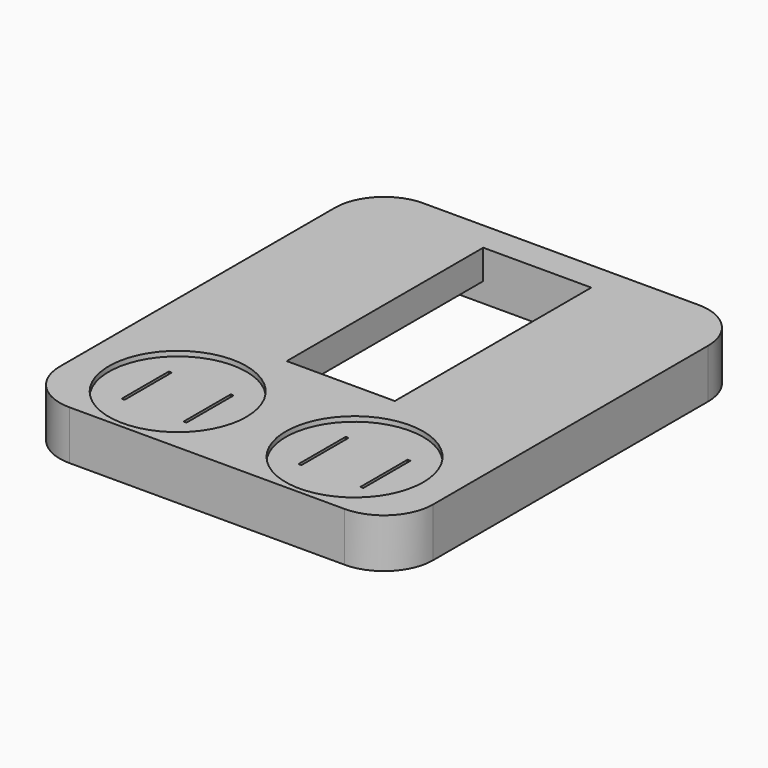
from build123d import *

# Parameters (mm, degrees)
F0_W      = 38
F0_H      = 45
F1_DEPTH  = 5
F2_R      = 7
F3_DEPTH  = 0.5
F2_W      = 5.5
F2_H      = 25
F4_DEPTH  = 5.001
F5_W      = 3
F5_H      = 25
F6_DEPTH  = 2
F7_W      = 0.3
F7_H      = 6
F8_DEPTH  = 5
F9_R      = 7
F10_DEPTH = 0.5
F11_R     = 5


with BuildPart() as f1:
    # F0 (on Top) → F1 (new body)
    with BuildSketch(Plane.XY):
        with Locations((19, 22.5)):
            Rectangle(F0_W, F0_H)
    extrude(amount=F1_DEPTH)

    # F2 (on face) → F3 (cut)
    with BuildSketch(Plane.XY.offset(5)):
        with Locations((10, 7.5)):
            Circle(F2_R)
        with Locations((28, 7.5)):
            Circle(F2_R)
    extrude(amount=-F3_DEPTH, mode=Mode.SUBTRACT)

    # F2 (on face) → F4 (cut, through all)
    with BuildSketch(Plane.XY.offset(5)):
        with Locations((16.25, 29.5)):
            Rectangle(F2_W, F2_H)
        with Locations((21.75, 29.5)):
            Rectangle(F2_W, F2_H)
    extrude(amount=-F4_DEPTH, mode=Mode.SUBTRACT)

    # F5 (on face) → F6 (cut)
    with BuildSketch(Plane(origin=(0, 0, 0), x_dir=(1, 0, 0), z_dir=(0, 0, -1))):
        with Locations((26, -29.5)):
            Rectangle(F5_W, F5_H)
        with Locations((12, -29.5)):
            Rectangle(F5_W, F5_H)
    extrude(amount=-F6_DEPTH, mode=Mode.SUBTRACT)

    # F7 (on face) → F8 (cut)
    with BuildSketch(Plane.XY.offset(4.5)):
        with Locations((6.85, 7.5)):
            Rectangle(F7_W, F7_H)
        with Locations((13.15, 7.5)):
            Rectangle(F7_W, F7_H)
        with Locations((24.85, 7.5)):
            Rectangle(F7_W, F7_H)
        with Locations((31.15, 7.5)):
            Rectangle(F7_W, F7_H)
    extrude(amount=-F8_DEPTH, mode=Mode.SUBTRACT)

    # F9 (on face) → F10 (cut)
    with BuildSketch(Plane(origin=(0, 0, 0), x_dir=(1, 0, 0), z_dir=(0, 0, -1))):
        with Locations((28, -7.5)):
            Circle(F9_R)
        with Locations((10, -7.5)):
            Circle(F9_R)
    extrude(amount=-F10_DEPTH, mode=Mode.SUBTRACT)

    # F11
    f11_edges = [f1.edges().sort_by_distance(p)[0] for p in [
        (0, 0, 2.5),
        (38, 0, 2.5),
        (38, 45, 2.5),
        (0, 45, 2.5),
    ]]
    fillet(f11_edges, radius=F11_R)


solid = f1.part
